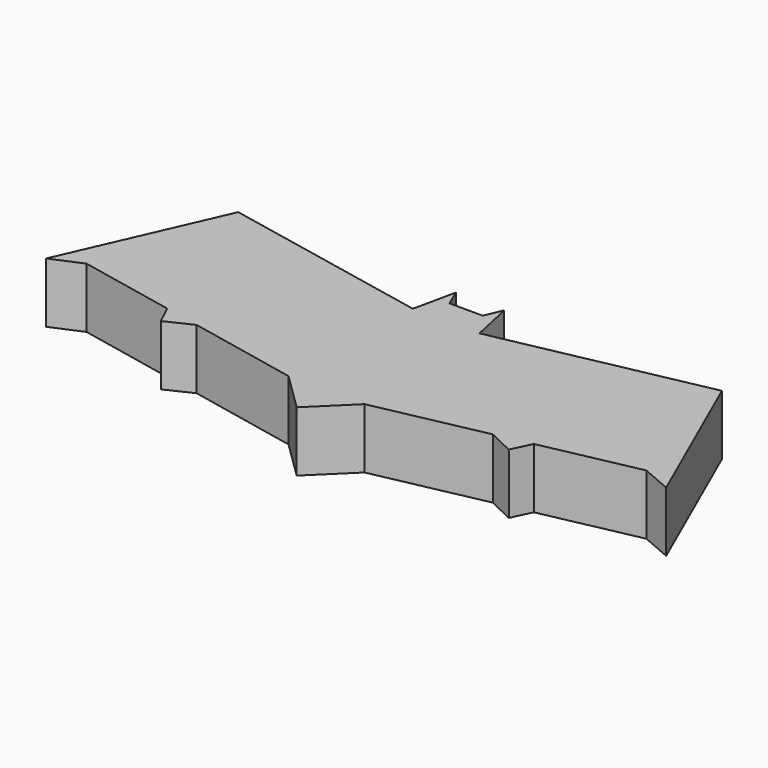
from build123d import *

# Parameters (mm, degrees)
F1_DEPTH = 12.7


with BuildPart() as f1:
    # F0 (on Top) → F1 (new body)
    with BuildSketch(Plane.XY):
        Polygon((0, -15.680935), (0, 29.021675), (-3.516382, 29.021675), (-5.095464, 32.706197), (-7.034861, 23.75273), (-51.050033, 32.706197), (-65.449044, 0), (-59.080428, 2.729409), (-38.705469, -1.482393), (-36.721308, -5.629899), (-31.266223, -3.020194), (-8.013232, -7.826927), align=None)
        Polygon((3.516382, 29.021675), (0, 29.021675), (0, -15.680935), (8.013232, -7.826927), (31.266223, -3.020194), (36.721308, -5.629899), (38.705469, -1.482393), (59.080428, 2.729409), (65.449044, 0), (51.050033, 32.706197), (7.034861, 23.75273), (5.095464, 32.706197), align=None)
    extrude(amount=F1_DEPTH)


solid = f1.part
